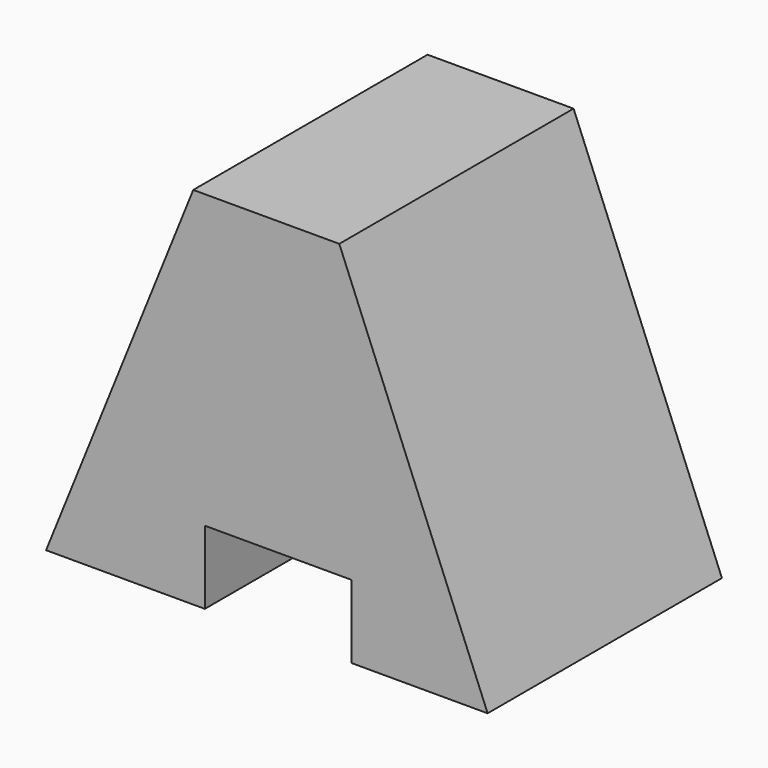
from build123d import *

# Parameters (mm, degrees)
F0_W     = 38.2962413132
F0_H     = 31.662248075
F1_DEPTH = 25.4
F3_DEPTH = 25.401
F5_DEPTH = 25.4
F6_DEPTH = 50.801
F7_W     = 12.7
F7_H     = 6.35
F8_DEPTH = 25.4


with BuildPart() as f1:
    # F0 (on Front) → F1 (new body)
    with BuildSketch(Plane.XZ):
        with Locations((19.1481206566, 15.8311240375)):
            Rectangle(F0_W, F0_H)
    extrude(amount=F1_DEPTH)

    # F2 (on face) → F3 (cut, through all)
    with BuildSketch(Plane.XZ.offset(25.4)):
        Polygon((0, 31.662248075), (0, 0), (12.7654150128, 31.662248075), align=None)
    extrude(amount=-F3_DEPTH, mode=Mode.SUBTRACT)

    # F4 (on face) → F5 (join)
    with BuildSketch(Plane.XZ.offset(25.4)):
        Polygon((25.4303161055, 31.662248075), (38.2962413132, 0), (38.2962413132, 31.662248075), align=None)
    extrude(amount=F5_DEPTH)

    # F6 (cut, through all): a face of the model
    f6_faces = [f1.faces().sort_by_distance(p)[0] for p in [
        (34.0075995773, -50.8, 21.1081653833),
    ]]
    extrude(f6_faces, amount=-F6_DEPTH, mode=Mode.SUBTRACT)

    # F7 (on face) → F8 (cut)
    with BuildSketch(Plane.XZ.offset(25.4)):
        with Locations((20.1205644593, 3.175)):
            Rectangle(F7_W, F7_H)
    extrude(amount=-F8_DEPTH, mode=Mode.SUBTRACT)


solid = f1.part
